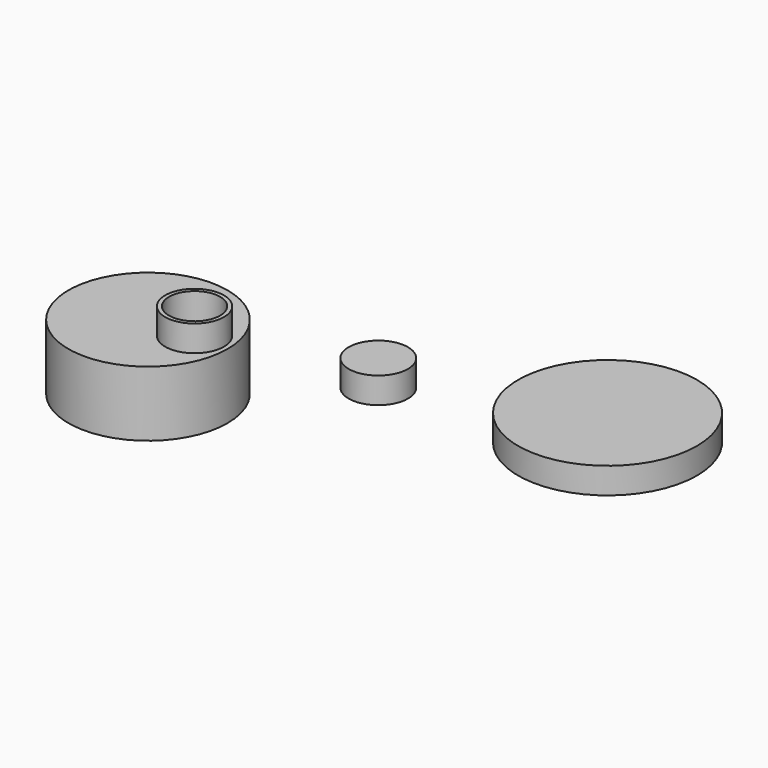
from build123d import *

# Parameters (mm, degrees)
F0_R      = 30.970353642
F1_DEPTH  = 25.4
F2_T      = -2.54
F4_R      = 11.4513945414
F5_DEPTH  = 10.16
F6_T      = -1.524
F8_D      = 19.812
F9_R      = 11.5283057716
F10_DEPTH = 10.16
F9_R_2    = 34.8231609138
F11_T     = -1.27


with BuildPart() as f1:
    # F0 (on Top) → F1 (new body)
    with BuildSketch(Plane.XY):
        Circle(F0_R)
    extrude(amount=F1_DEPTH)

    # F2
    f2_openings = [f1.faces().sort_by_distance(p)[0] for p in [
        (0, 0, 0),
    ]]
    offset(amount=F2_T, openings=f2_openings)

    # F4 (on offset) → F5 (join)
    with BuildSketch(Plane.XY.offset(25.4)):
        with Locations((17.7274942398, 0.5059055984)):
            Circle(F4_R)
    extrude(amount=F5_DEPTH)

    # F6
    f6_openings = [f1.faces().sort_by_distance(p)[0] for p in [
        (17.727494, 0.505906, 35.56),
    ]]
    offset(amount=F6_T, openings=f6_openings, kind=Kind.INTERSECTION)

    # F8 (through all)
    with Locations(Plane.XY.offset(24.384)):
        with Locations((17.7274942398, 0.5059055984)):
            Hole(F8_D / 2)


with BuildPart() as f10:
    # F9 (on Top) → F10 (new body)
    with BuildSketch(Plane.XY):
        with Locations((52.172742784, 46.8350797892)):
            Circle(F9_R)
        with Locations((52.172742784, 46.8350797892)):
            Circle(F9_R)
    extrude(amount=F10_DEPTH)

    # F11
    f11_openings = [f10.faces().sort_by_distance(p)[0] for p in [
        (52.172743, 46.83508, 0),
    ]]
    offset(amount=F11_T, openings=f11_openings)


with BuildPart() as f10b:
    # F9 (on Top) → F10, piece 2 (new body)
    with BuildSketch(Plane.XY):
        with Locations((129.1216164827, 62.1629469097)):
            Circle(F9_R_2)
    extrude(amount=F10_DEPTH)


solid = Compound([f1.part, f10.part, f10b.part])
